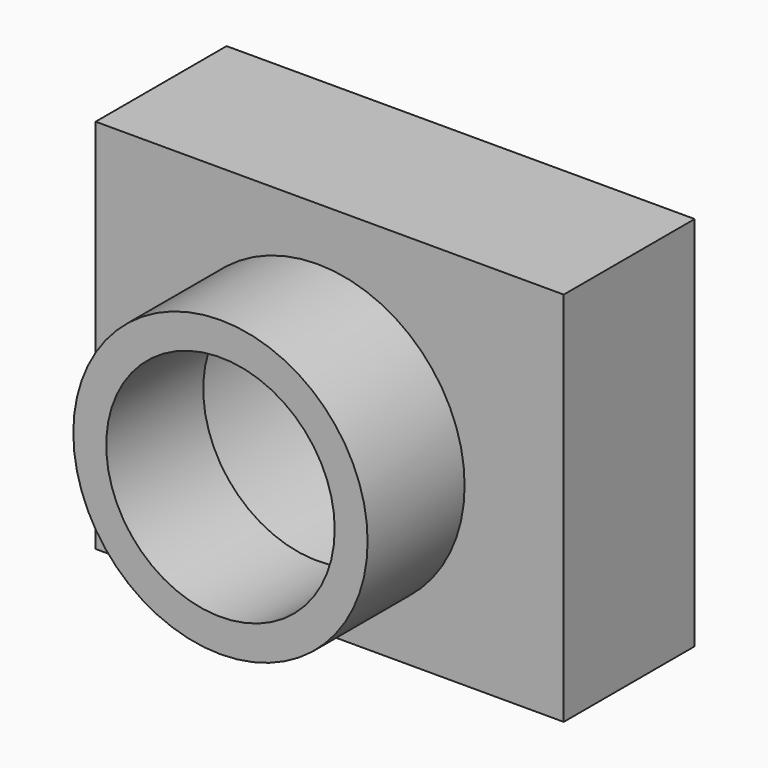
from build123d import *

# Parameters (mm, degrees)
F0_R     = 30.825419
F0_R_2   = 23.931876
F1_DEPTH = 25.4
F0_W     = 98.057371
F0_H     = 78.806847
F2_DEPTH = 34.29


with BuildPart() as f1:
    # F0 (on Front) → F1 (new body)
    with BuildSketch(Plane.XZ):
        Circle(F0_R)
        Circle(F0_R_2, mode=Mode.SUBTRACT)
    extrude(amount=F1_DEPTH)


with BuildPart() as f2:
    # F0 (on Front) → F2 (new body)
    with BuildSketch(Plane.XZ):
        with Locations((2.55671, 2.556712)):
            Rectangle(F0_W, F0_H)
        Circle(F0_R, mode=Mode.SUBTRACT)
    extrude(amount=-F2_DEPTH)


solid = Compound([f1.part, f2.part])
